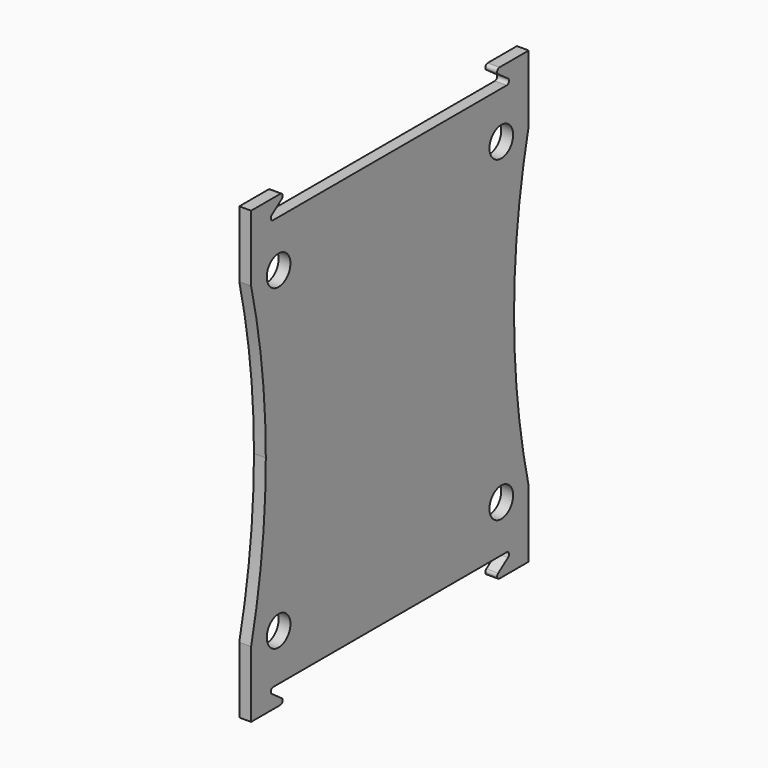
from build123d import *

# Parameters (mm, degrees)
F1_DEPTH = 1
F2_R     = 1.25
F3_DEPTH = 1


with BuildPart() as f1:
    # F0 (on Right) → F1 (new body)
    with BuildSketch(Plane.YZ):
        with BuildLine():
            Line((12.275582, 17.35), (-0.044173, 17.35))
            Line((-0.044173, 17.35), (-12.363928, 17.35))
            ThreePointArc((-12.363928, 17.35), (-12.602005, 17.523717), (-12.509218, 17.803447))
            Line((-12.509218, 17.803447), (-11.468659, 18.546553))
            ThreePointArc((-11.468659, 18.546553), (-11.375872, 18.826283), (-11.613949, 19))
            Line((-11.613949, 19), (-14.694173, 19))
            Line((-14.694173, 19), (-14.694173, 13.4))
            ThreePointArc((-14.694173, 13.4), (-13.532961, 6.744674), (-13.144173, 0))
            ThreePointArc((-13.144173, 0), (-13.532961, -6.744674), (-14.694173, -13.4))
            Line((-14.694173, -13.4), (-14.694173, -19))
            Line((-14.694173, -19), (-11.613949, -19))
            ThreePointArc((-11.613949, -19), (-11.375872, -18.826283), (-11.468659, -18.546553))
            Line((-11.468659, -18.546553), (-12.509218, -17.803447))
            ThreePointArc((-12.509218, -17.803447), (-12.602005, -17.523717), (-12.363928, -17.35))
            Line((-12.363928, -17.35), (-0.044173, -17.35))
            Line((-0.044173, -17.35), (12.275582, -17.35))
            ThreePointArc((12.275582, -17.35), (12.51366, -17.523717), (12.420872, -17.803447))
            Line((12.420872, -17.803447), (11.380313, -18.546553))
            ThreePointArc((11.380313, -18.546553), (11.287526, -18.826283), (11.525603, -19))
            Line((11.525603, -19), (14.605827, -19))
            Line((14.605827, -19), (14.605827, -13.4))
            ThreePointArc((14.605827, -13.4), (13.444615, -6.744674), (13.055827, 0))
            ThreePointArc((13.055827, 0), (13.444615, 6.744674), (14.605827, 13.4))
            Line((14.605827, 13.4), (14.605827, 19))
            Line((14.605827, 19), (11.525603, 19))
            ThreePointArc((11.525603, 19), (11.287526, 18.826283), (11.380313, 18.546553))
            Line((11.380313, 18.546553), (12.420872, 17.803447))
            ThreePointArc((12.420872, 17.803447), (12.51366, 17.523717), (12.275582, 17.35))
        make_face()
    extrude(amount=F1_DEPTH)

    # F2 (on face) → F3 (cut, through all)
    with BuildSketch(Plane.YZ):
        with Locations((11.705827, 13.4)):
            Circle(F2_R)
        with Locations((-11.794173, 13.4)):
            Circle(F2_R)
        with Locations((-11.794173, -13.4)):
            Circle(F2_R)
        with Locations((11.705827, -13.4)):
            Circle(F2_R)
    extrude(amount=F3_DEPTH, mode=Mode.SUBTRACT)


solid = f1.part
